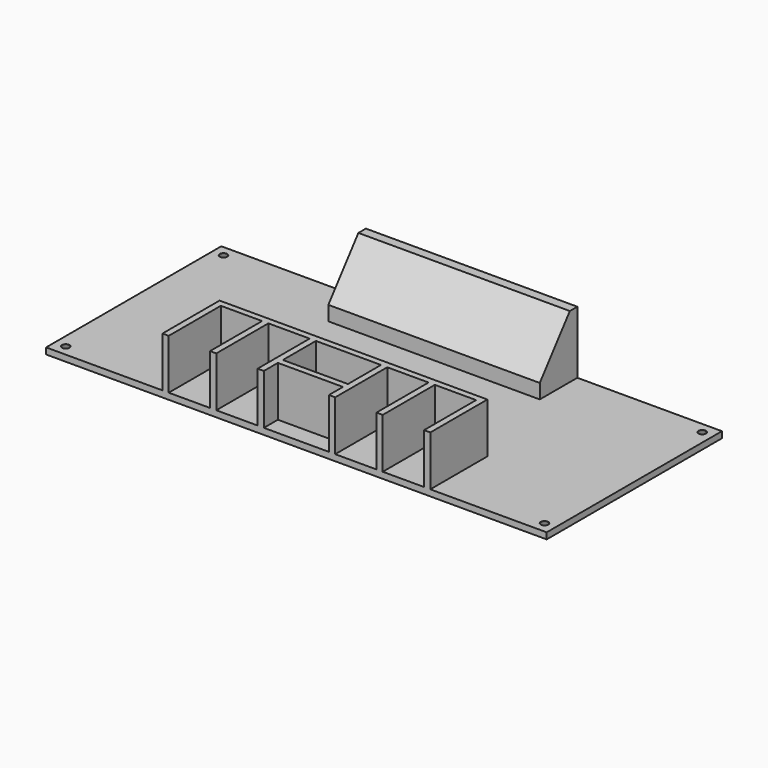
from build123d import *

# Parameters (mm, degrees)
F0_W           = 203.2
F0_H           = 88.9
F1_DEPTH       = 2.54
F2_W           = 2.54
F2_H           = 26.416
F2_H_2         = 2.54
F2_W_2         = 16.764
F2_W_3         = 26.416
F3_DEPTH       = 20.32
F5_D           = 3.048
F5_CSINK_D     = 5.08
F5_CSINK_ANGLE = 49
F2_W_4         = 85.8261585236
F2_H_3         = 19.05
F6_DEPTH       = 25.4
F7_SIZE2       = 19.5063104746
F7_SIZE        = 15.24


with BuildPart() as f1:
    # F0 (on Top) → F1 (new body)
    with BuildSketch(Plane.XY):
        Rectangle(F0_W, F0_H)
    extrude(amount=F1_DEPTH)

    # F2 (on face) → F3 (join)
    with BuildSketch(Plane.XY.offset(2.54)):
        with Locations((-33.782, -31.242)):
            Rectangle(F2_W, F2_H)
        with Locations((-53.086, -31.242)):
            Rectangle(F2_W, F2_H)
        with Locations((-53.086, -16.764)):
            Rectangle(F2_W, F2_H_2)
        with Locations((33.782, -31.242)):
            Rectangle(F2_W, F2_H)
        with Locations((53.086, -31.242)):
            Rectangle(F2_W, F2_H)
        with Locations((53.086, -16.764)):
            Rectangle(F2_W, F2_H_2)
        with Locations((-24.13, -16.764)):
            Rectangle(F2_W_2, F2_H_2)
        with Locations((-14.478, -16.764)):
            Rectangle(F2_W, F2_H_2)
        with Locations((24.13, -16.764)):
            Rectangle(F2_W_2, F2_H_2)
        with Locations((14.478, -16.764)):
            Rectangle(F2_W, F2_H_2)
        with Locations((-33.782, -16.764)):
            Rectangle(F2_W, F2_H_2)
        with Locations((-43.434, -16.764)):
            Rectangle(F2_W_2, F2_H_2)
        with Locations((33.782, -16.764)):
            Rectangle(F2_W, F2_H_2)
        with Locations((43.434, -16.764)):
            Rectangle(F2_W_2, F2_H_2)
        with Locations((0, -16.764)):
            Rectangle(F2_W_3, F2_H_2)
        Polygon((13.208, -37.338), (13.208, -44.45), (15.748, -44.45), (15.748, -18.034), (13.208, -18.034), (13.208, -34.798), align=None)
        Polygon((-15.748, -18.034), (-15.748, -44.45), (-13.208, -44.45), (-13.208, -37.338), (-13.208, -34.798), (-13.208, -18.034), align=None)
        with Locations((0, -36.068)):
            Rectangle(F2_W_3, F2_H_2)
    extrude(amount=F3_DEPTH)

    # F5 (through all)
    with Locations(Plane(origin=(0, 0, 0), x_dir=(1, 0, 0), z_dir=(0, 0, -1))):
        with Locations((97.155, -40.005), (97.155, 40.005), (-97.155, 40.005), (-97.155, -40.005)):
            CounterSinkHole(F5_D / 2, F5_CSINK_D / 2, counter_sink_angle=F5_CSINK_ANGLE)

    # F2 (on face) → F6 (join)
    with BuildSketch(Plane.XY.offset(2.54)):
        with Locations((0, 34.925)):
            Rectangle(F2_W_4, F2_H_3)
    extrude(amount=F6_DEPTH)

    # F7
    f7_edges = [f1.edges().sort_by_distance(p)[0] for p in [
        (0, 25.4, 27.94),
    ]]
    f7_side = f1.faces().sort_by_distance((0, 34.925, 27.94))[0]
    chamfer(f7_edges, length=F7_SIZE, length2=F7_SIZE2, reference=f7_side)


solid = f1.part
